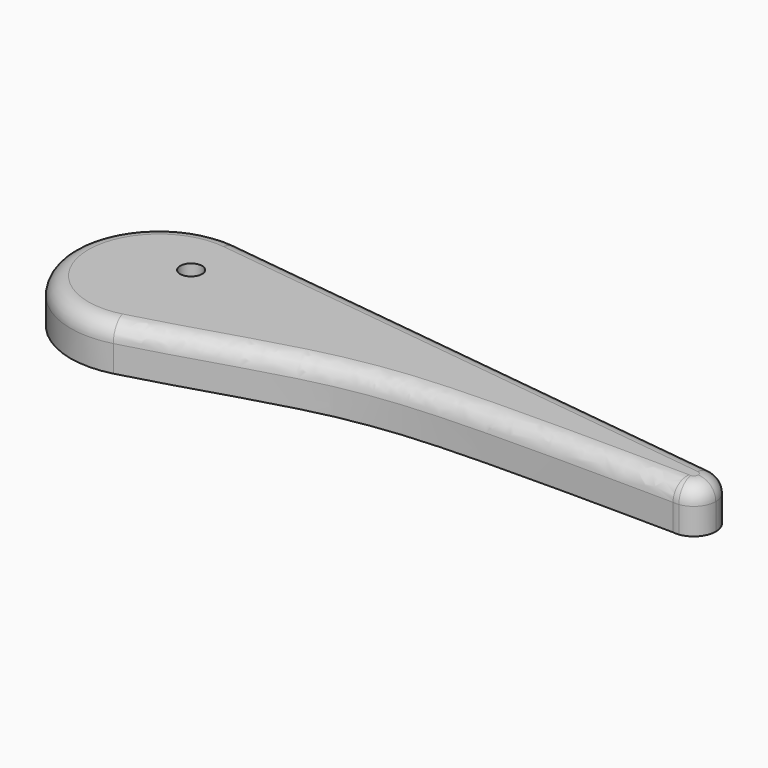
from build123d import *

# Parameters (mm, degrees)
F0_R     = 3.175
F1_DEPTH = 12.7
F2_R     = 5.08


with BuildPart() as f1:
    # F0 (on Top) → F1 (new body)
    with BuildSketch(Plane.XY):
        with BuildLine():
            ThreePointArc((-71.0804048989, -24.5493938467), (-57.4650398626, -15.4854298619), (-52.1986302525, 0))
            ThreePointArc((-52.1986302525, 0), (-58.5591797737, 16.8124752926), (-74.4552700528, 25.2047473039))
            ThreePointArc((-74.4552700528, 25.2047473039), (-102.9403981321, -1.7189533851), (-71.0804048989, -24.5493938467))
        make_face()
        with Locations((-73.7108141184, 6.740516983)):
            Circle(F0_R, mode=Mode.SUBTRACT)
        with BuildLine():
            ThreePointArc((-74.4552700528, 25.2047473039), (-58.5591797737, 16.8124752926), (-52.1986302525, 0))
            ThreePointArc((-52.1986302525, 0), (-57.4650398626, -15.4854298619), (-71.0804048989, -24.5493938467))
            add(Edge.make_bspline(
                [(-71.0804048989, -24.5493938467), (-52.7412181623, -19.6800698748), (-21.1502646093, -8.2520622264), (17.6363924631, -5.7514904756), (54.7287005753, -6.0609514179), (75.4228812113, -6.2840965851)],
                knots=[0, 0, 0, 0, 0.3422286689, 0.6353969827, 0.9903505149, 0.9903505149, 0.9903505149, 0.9903505149], degree=3))
            ThreePointArc((75.4228812113, -6.2840965851), (70.0424065813, 0.8492058566), (77.1212069372, 6.301186826))
            Line((77.1212069372, 6.301186826), (-74.4552700528, 25.2047473039))
        make_face()
        with BuildLine():
            ThreePointArc((82.6853668873, 0), (81.095229507, 4.2031188231), (77.1212069372, 6.301186826))
            ThreePointArc((77.1212069372, 6.301186826), (70.0424065813, 0.8492058566), (75.4228812113, -6.2840965851))
            add(Edge.make_bspline(
                [(75.4228812113, -6.2840965851), (75.9854567877, -6.2901628326), (76.5483132187, -6.2962687399), (77.1113875818, -6.3024036591)],
                knots=[0.9903505149, 0.9903505149, 0.9903505149, 0.9903505149, 1, 1, 1, 1], degree=3))
            ThreePointArc((77.1113875818, -6.3024036591), (81.0919534475, -4.2068259169), (82.6853668873, 0))
        make_face()
        with BuildLine():
            add(Edge.make_bspline(
                [(75.4228812113, -6.2840965851), (75.9854567877, -6.2901628326), (76.5483132187, -6.2962687399), (77.1113875818, -6.3024036591)],
                knots=[0.9903505149, 0.9903505149, 0.9903505149, 0.9903505149, 1, 1, 1, 1], degree=3))
            ThreePointArc((75.4228812113, -6.2840965851), (76.266523151, -6.3496268032), (77.1113875818, -6.3024036591))
        make_face()
    extrude(amount=F1_DEPTH)

    # F2
    f2_edges = [f1.edges().sort_by_distance(p)[0] for p in [
        (-102.940398, -1.718953, 12.7),
        (1.057114, -7.077023, 12.7),
        (1.332968, 15.752967, 12.7),
        (82.628327, -0.849206, 12.7),
    ]]
    fillet(f2_edges, radius=F2_R)


solid = f1.part
